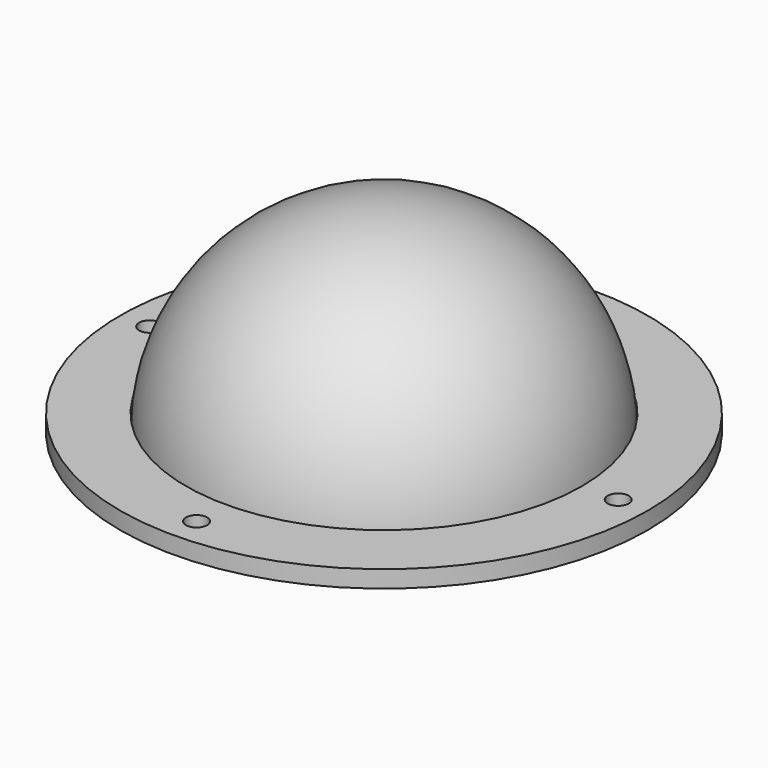
from build123d import *

# Parameters (mm, degrees)
CYLINDER005_R             = 1.6
CYLINDER005_DEPTH         = 10
CYLINDER004_R             = 1.6
CYLINDER004_DEPTH         = 10
FUSION001_PLACEMENT_ANGLE = 90
CYLINDER003_R             = 1.6
CYLINDER003_DEPTH         = 10
CYLINDER002_R             = 1.6
CYLINDER002_DEPTH         = 10
CYLINDER001_R             = 30
CYLINDER001_DEPTH         = 2.6
CYLINDER_R                = 40
CYLINDER_DEPTH            = 2.6
SPHERE001_ANGLE           = 180
SPHERE_ANGLE              = 180


with BuildPart() as cylinder005:
    # Cylinder005 → Cylinder005 (new body)
    with BuildSketch(Plane(origin=(35.5, 0, 0), x_dir=(1, 0, 0), z_dir=(0, 0, 1))):
        Circle(CYLINDER005_R)
    extrude(amount=CYLINDER005_DEPTH)


with BuildPart() as part_mirroring001:
    # Part__Mirroring001: instance of Cylinder005
    add(cylinder005.part.mirror(Plane(origin=(0, 0, 0), x_dir=(0, -1, 0), z_dir=(1, 0, 0))))


with BuildPart() as hole002:
    # Cylinder004 → Cylinder004 (new body)
    with BuildSketch(Plane(origin=(35.5, 0, 0), x_dir=(1, 0, 0), z_dir=(0, 0, 1))):
        Circle(CYLINDER004_R)
    extrude(amount=CYLINDER004_DEPTH)

    # Fusion001: union Part__Mirroring001
    add(part_mirroring001.part)


with BuildPart() as hole002_1:
    # Fusion001 placement: moved
    add(hole002.part.rotate(Axis((0, 0, 0), (0, 0, 1)), FUSION001_PLACEMENT_ANGLE))


with BuildPart() as cylinder003:
    # Cylinder003 → Cylinder003 (new body)
    with BuildSketch(Plane(origin=(35.5, 0, 0), x_dir=(1, 0, 0), z_dir=(0, 0, 1))):
        Circle(CYLINDER003_R)
    extrude(amount=CYLINDER003_DEPTH)


with BuildPart() as part_mirroring:
    # Part__Mirroring: instance of Cylinder003
    add(cylinder003.part.mirror(Plane(origin=(0, 0, 0), x_dir=(0, -1, 0), z_dir=(1, 0, 0))))


with BuildPart() as holes:
    # Cylinder002 → Cylinder002 (new body)
    with BuildSketch(Plane(origin=(35.5, 0, 0), x_dir=(1, 0, 0), z_dir=(0, 0, 1))):
        Circle(CYLINDER002_R)
    extrude(amount=CYLINDER002_DEPTH)

    # Fusion178: union Part__Mirroring
    add(part_mirroring.part)

    # Fusion002: union hole002
    add(hole002_1.part)


with BuildPart() as holes_1:
    # Fusion002 placement: moved
    add(holes.part.moved(Location((0, 0, -4))))


with BuildPart() as cylinder_in:
    # Cylinder001 → Cylinder001 (new body)
    with BuildSketch(Plane.XY):
        Circle(CYLINDER001_R)
    extrude(amount=CYLINDER001_DEPTH)


with BuildPart() as cut004:
    # Cylinder → Cylinder (new body)
    with BuildSketch(Plane.XY):
        Circle(CYLINDER_R)
    extrude(amount=CYLINDER_DEPTH)

    # Cut003: cut Cylinder_in
    add(cylinder_in.part, mode=Mode.SUBTRACT)

    # Cut004: cut Holes
    add(holes_1.part, mode=Mode.SUBTRACT)


with BuildPart() as sphere_in:
    # Sphere001 → Sphere001 (revolve)
    with BuildSketch(Plane(origin=(0, 0, 0), x_dir=(1, 0, 0), z_dir=(0, 0, -1))):
        with BuildLine():
            ThreePointArc((0, -28.7), (28.7, 0), (0, 28.7))
            Line((0, 28.7), (0, -28.7))
        make_face()
    revolve(axis=Axis((0, 0, 0), (0, -1, 0)), revolution_arc=SPHERE001_ANGLE)


with BuildPart() as lightdome:
    # Sphere → Sphere (revolve)
    with BuildSketch(Plane(origin=(0, 0, 0), x_dir=(1, 0, 0), z_dir=(0, 0, -1))):
        with BuildLine():
            ThreePointArc((0, -30), (30, 0), (0, 30))
            Line((0, 30), (0, -30))
        make_face()
    revolve(axis=Axis((0, 0, 0), (0, -1, 0)), revolution_arc=SPHERE_ANGLE)

    # Cut002: cut Sphere_in
    add(sphere_in.part, mode=Mode.SUBTRACT)

    # Fusion004: union Cut004
    add(cut004.part)


with BuildPart() as lightdome_1:
    # Fusion004 placement: moved
    add(lightdome.part.moved(Location((0, 43.5, 140))))


solid = lightdome_1.part
